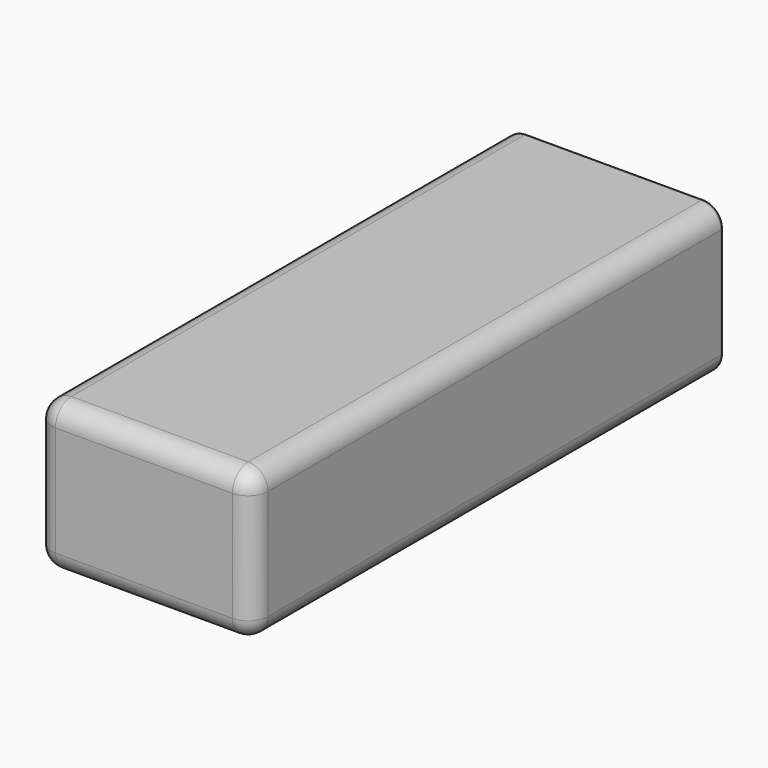
from build123d import *

# Parameters (mm, degrees)
F1_DEPTH = 3.5
F2_DEPTH = 150
F3_R     = 5
F4_R     = 1


with BuildPart() as f1:
    # F0 (on Front) → F1 (new body)
    with BuildSketch(Plane.XZ):
        with BuildLine():
            ThreePointArc((3.5, 8.5), (4.9644660941, 4.9644660941), (8.5, 3.5))
            Line((8.5, 3.5), (46.5, 3.5))
            ThreePointArc((46.5, 3.5), (50.0355339059, 4.9644660941), (51.5, 8.5))
            Line((51.5, 8.5), (51.5, 29.5))
            ThreePointArc((51.5, 29.5), (50.0355339059, 33.0355339059), (46.5, 34.5))
            Line((46.5, 34.5), (8.5, 34.5))
            ThreePointArc((8.5, 34.5), (4.9644660941, 33.0355339059), (3.5, 29.5))
            Line((3.5, 29.5), (3.5, 8.5))
        make_face()
    extrude(amount=-F1_DEPTH)

    # F0 (on Front) → F2 (join)
    with BuildSketch(Plane.XZ):
        with BuildLine():
            ThreePointArc((0, 5), (1.4644660941, 1.4644660941), (5, 0))
            Line((5, 0), (50, 0))
            ThreePointArc((50, 0), (53.5355339059, 1.4644660941), (55, 5))
            Line((55, 5), (55, 33))
            ThreePointArc((55, 33), (53.5355339059, 36.5355339059), (50, 38))
            Line((50, 38), (5, 38))
            ThreePointArc((5, 38), (1.4644660941, 36.5355339059), (0, 33))
            Line((0, 33), (0, 5))
        make_face()
        with BuildLine():
            Line((46.5, 3.5), (8.5, 3.5))
            ThreePointArc((8.5, 3.5), (4.9644660941, 4.9644660941), (3.5, 8.5))
            Line((3.5, 8.5), (3.5, 29.5))
            ThreePointArc((3.5, 29.5), (4.9644660941, 33.0355339059), (8.5, 34.5))
            Line((8.5, 34.5), (46.5, 34.5))
            ThreePointArc((46.5, 34.5), (50.0355339059, 33.0355339059), (51.5, 29.5))
            Line((51.5, 29.5), (51.5, 8.5))
            ThreePointArc((51.5, 8.5), (50.0355339059, 4.9644660941), (46.5, 3.5))
        make_face(mode=Mode.SUBTRACT)
    extrude(amount=-F2_DEPTH)

    # F3
    f3_edges = [f1.edges().sort_by_distance(p)[0] for p in [
        (1.464466, 0, 36.535534),
        (0, 0, 19),
        (27.5, 0, 38),
        (53.535534, 0, 36.535534),
        (55, 0, 19),
        (53.535534, 0, 1.464466),
        (27.5, 0, 0),
        (1.464466, 0, 1.464466),
    ]]
    fillet(f3_edges, radius=F3_R)

    # F4
    f4_edges = [f1.edges().sort_by_distance(p)[0] for p in [
        (27.5, 150, 38),
        (53.535534, 150, 36.535534),
        (55, 150, 19),
        (53.535534, 150, 1.464466),
        (27.5, 150, 0),
        (1.464466, 150, 1.464466),
        (0, 150, 19),
        (1.464466, 150, 36.535534),
        (3.5, 150, 19),
        (4.964466, 150, 33.035534),
        (27.5, 150, 34.5),
        (50.035534, 150, 33.035534),
        (51.5, 150, 19),
        (50.035534, 150, 4.964466),
        (27.5, 150, 3.5),
        (4.964466, 150, 4.964466),
    ]]
    fillet(f4_edges, radius=F4_R)


solid = f1.part
